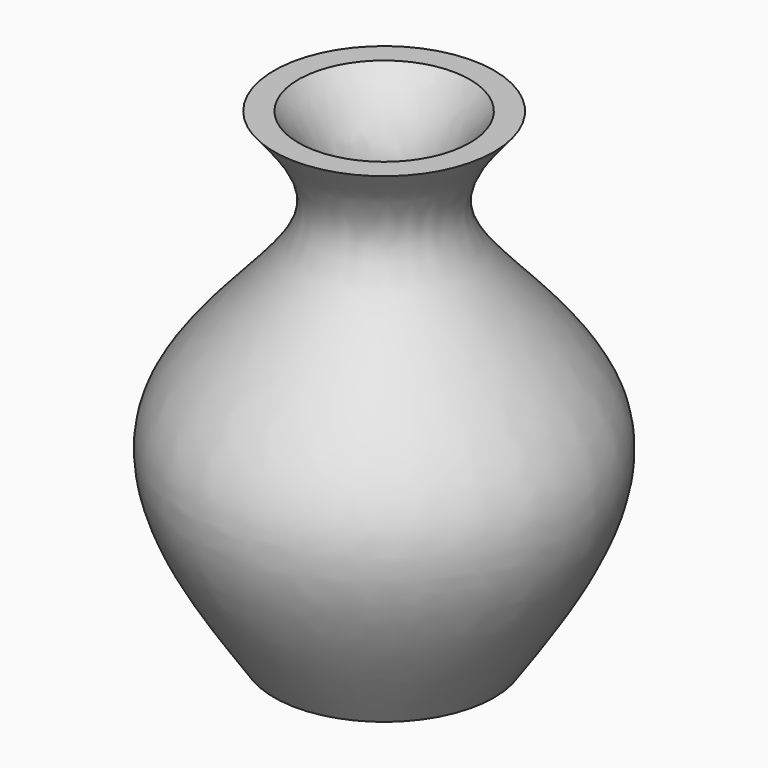
from build123d import *

# Parameters (mm, degrees)
F2_T = -2.5


with BuildPart() as f1:
    # F0 (on Front) → F1 (revolve)
    with BuildSketch(Plane.XZ):
        with BuildLine():
            Line((47.6393811405, 39.6587029099), (32.9709239304, 39.6587029099))
            Line((32.9709239304, 39.6587029099), (32.9709239304, -24.3702717125))
            Line((32.9709239304, -24.3702717125), (47.6393811405, -24.3702717125))
            add(Edge.make_bspline(
                [(47.6393811405, 39.6587029099), (44.290511015, 35.650202706), (36.1724632788, 25.93313552), (67.6675813832, 4.98967307), (54.4315761365, -14.4133875384), (47.6393811405, -24.3702717125)],
                knots=[0, 0, 0, 0, 0.2547624212, 0.6175735156, 1, 1, 1, 1], degree=3))
        make_face()
    revolve(axis=Axis((32.9709239304, 0, 7.6442155987), (0, 0, 1)))

    # F2
    f2_openings = [f1.faces().sort_by_distance(p)[0] for p in [
        (32.970924, 0, 39.658703),
    ]]
    offset(amount=F2_T, openings=f2_openings)


solid = f1.part
